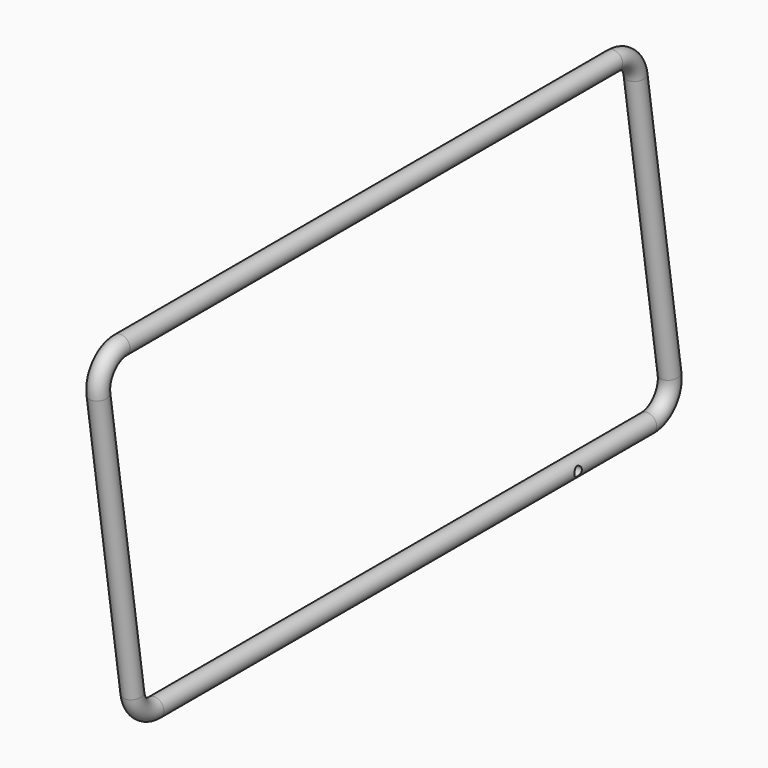
from build123d import *

# Parameters (mm, degrees)
F2_R     = 12.7
F4_R     = 6.35
F5_DEPTH = 12.7


with BuildPart() as f3:
    # F3: sweep along a path in F0
    with BuildLine(Plane.YZ) as f3_path:
        Line((-379.5963887051, 0), (457.7358825619, 0))
        ThreePointArc((457.7358825619, 0), (486.6221030238, 13.2565649029), (495.4069032048, 43.8012458045))
        Line((495.4069032048, 43.8012458045), (437.745214871, 424.8012458045))
        ThreePointArc((437.745214871, 424.8012458045), (424.9176293252, 447.9862204619), (400.0741942281, 457.2))
        Line((400.0741942281, 457.2), (-437.2580770389, 457.2))
        ThreePointArc((-437.2580770389, 457.2), (-466.1442975009, 443.9434350971), (-474.9290976818, 413.3987541955))
        Line((-474.9290976818, 413.3987541955), (-417.267409348, 32.3987541955))
        ThreePointArc((-417.267409348, 32.3987541955), (-404.4398238022, 9.2137795381), (-379.5963887051, 0))
    # F2 (on line) → F3 (sweep)
    with BuildSketch(Plane(origin=(0, -379.5963887051, 0), x_dir=(-1, 0, 0), z_dir=(0, 1, 0))):
        Circle(F2_R)
    sweep(path=f3_path.line)

    # F4 (on Right) → F5 (cut, symmetric)
    with BuildSketch(Plane.YZ):
        with Locations((324.3858825619, 0)):
            Circle(F4_R)
    extrude(amount=F5_DEPTH, both=True, mode=Mode.SUBTRACT)


solid = f3.part
